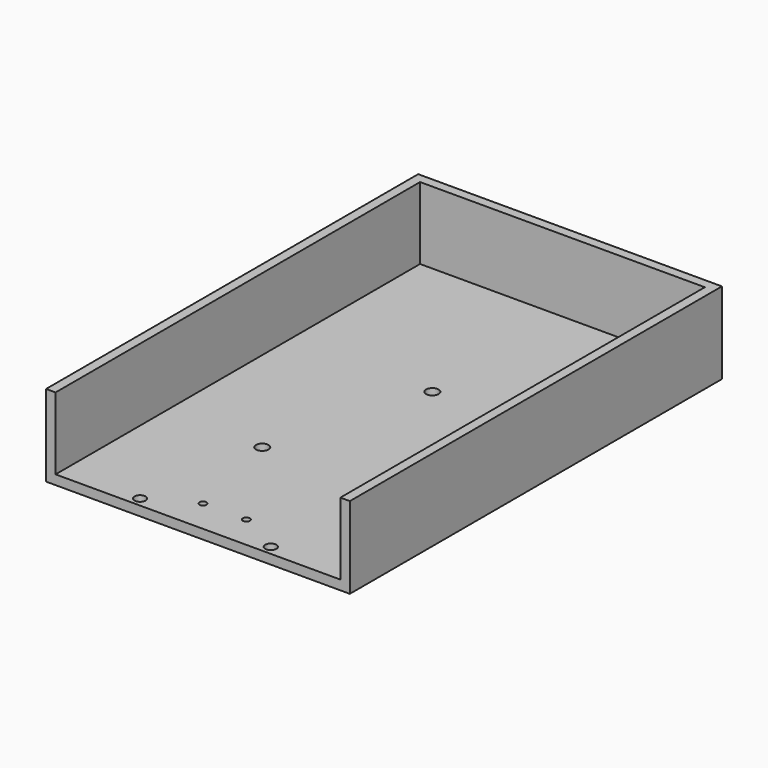
from build123d import *

# Parameters (mm, degrees)
F0_W     = 101.6
F0_H     = 152.4
F1_DEPTH = 3.175
F2_W     = 3.175
F2_H     = 152.4
F3_DEPTH = 24.13
F4_W     = 101.6
F4_H     = 27.305
F5_DEPTH = 3.175
F6_R     = 1.875
F6_R_2   = 1.175
F6_R_3   = 2.1
F6_R_4   = 1.625
F7_DEPTH = 3.175


with BuildPart() as f1:
    # F0 (on Top) → F1 (new body)
    with BuildSketch(Plane.XY):
        with Locations((0, 1.825321)):
            Rectangle(F0_W, F0_H)
    extrude(amount=F1_DEPTH)

    # F2 (on face) → F3 (join)
    with BuildSketch(Plane.XY.offset(3.175)):
        with Locations((49.2125, 1.825321)):
            Rectangle(F2_W, F2_H)
        with Locations((-49.2125, 1.825321)):
            Rectangle(F2_W, F2_H)
    extrude(amount=F3_DEPTH)

    # F4 (on face) → F5 (join)
    with BuildSketch(Plane(origin=(0, 78.025321, 0), x_dir=(-1, 0, 0), z_dir=(0, 1, 0))):
        with Locations((0, 13.6525)):
            Rectangle(F4_W, F4_H)
    extrude(amount=F5_DEPTH)

    # F6 (on face) → F7 (cut, through all)
    with BuildSketch(Plane.XY.offset(3.175)):
        with Locations((-21.875, -71.249679)):
            Circle(F6_R)
        with Locations((21.875, -71.249679)):
            Circle(F6_R)
        with Locations((-7.25, -63.199679)):
            Circle(F6_R_2)
        with Locations((7.25, -63.199679)):
            Circle(F6_R_2)
        with Locations((-15.060561, -28.659923)):
            Circle(F6_R_3)
        with Locations((-15.060561, -28.659923)):
            Circle(F6_R_4, mode=Mode.SUBTRACT)
        with Locations((27.789439, 23.580077)):
            Circle(F6_R_3)
        with Locations((27.789439, 23.580077)):
            Circle(F6_R_4, mode=Mode.SUBTRACT)
        with Locations((0.039439, 23.580077)):
            Circle(F6_R_3)
        with Locations((0.039439, 23.580077)):
            Circle(F6_R_4, mode=Mode.SUBTRACT)
        with Locations((33.419439, -28.659923)):
            Circle(F6_R_3)
        with Locations((33.419439, -28.659923)):
            Circle(F6_R_4, mode=Mode.SUBTRACT)
        with Locations((27.789439, 23.580077)):
            Circle(F6_R_4)
        with Locations((33.419439, -28.659923)):
            Circle(F6_R_4)
        with Locations((-15.060561, -28.659923)):
            Circle(F6_R_4)
        with Locations((0.039439, 23.580077)):
            Circle(F6_R_4)
    extrude(amount=-F7_DEPTH, mode=Mode.SUBTRACT)


solid = f1.part
